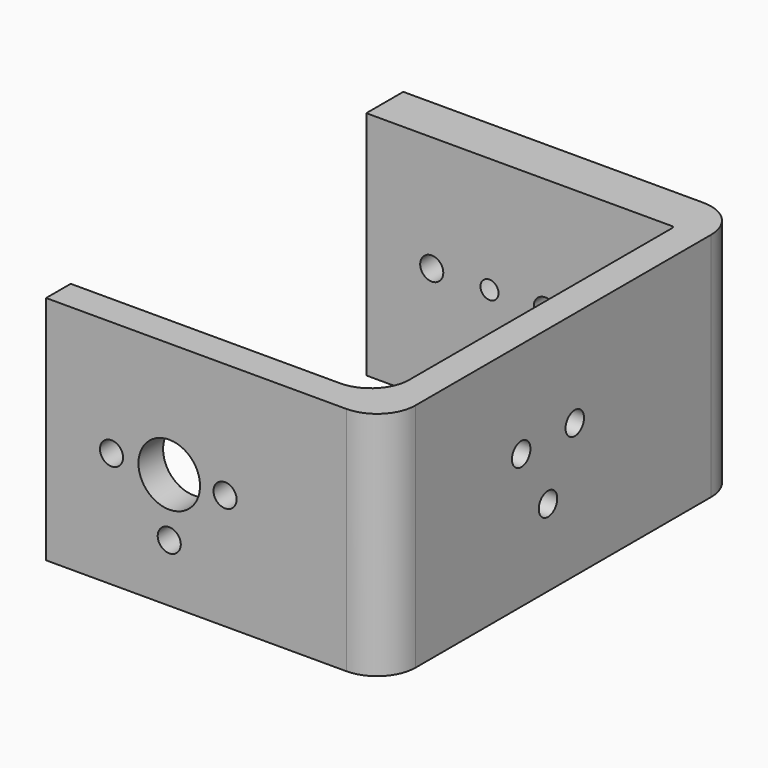
from build123d import *

# Parameters (mm, degrees)
F1_DEPTH = 30
F3_D     = 3
F5_D     = 9
F5_DEPTH = 4
F5_TIP   = 2.7038727856
F7_D     = 3
F9_D     = 8
F9_DEPTH = 4
F9_TIP   = 2.4034424761


with BuildPart() as f1:
    # F0 (on Top) → F1 (new body)
    with BuildSketch(Plane.XY):
        with BuildLine():
            ThreePointArc((-0.3734174669, 52.9050653557), (-0.1966407716, 52.831842051), (-0.1234174669, 52.6550653557))
            Line((-0.1234174669, 52.6550653557), (-0.1234174669, 9.9050653557))
            ThreePointArc((-0.1234174669, 9.9050653557), (-1.5878835609, 6.3695314498), (-5.1234174669, 4.9050653557))
            Line((-5.1234174669, 4.9050653557), (-40.1234174669, 4.9050653557))
            Line((-40.1234174669, 4.9050653557), (-40.1234174669, 0.9050653557))
            Line((-40.1234174669, 0.9050653557), (-1.1234174669, 0.9050653557))
            ThreePointArc((-1.1234174669, 0.9050653557), (2.4121164391, 2.3695314498), (3.8765825331, 5.9050653557))
            Line((3.8765825331, 5.9050653557), (3.8765825331, 53.9050653557))
            ThreePointArc((3.8765825331, 53.9050653557), (2.4121164391, 57.4405992616), (-1.1234174669, 58.9050653557))
            Line((-1.1234174669, 58.9050653557), (-40.1234174669, 58.9050653557))
            Line((-40.1234174669, 58.9050653557), (-40.1234174669, 52.9050653557))
            Line((-40.1234174669, 52.9050653557), (-0.3734174669, 52.9050653557))
        make_face()
    extrude(amount=F1_DEPTH)

    # F3 (through all)
    with Locations(Plane.YZ.offset(3.8765825331)):
        with Locations((23.0537810803, 17.4629910993), (27.4050653557, 10), (31.7563496311, 17.4629910993)):
            Hole(F3_D / 2)

    # F5
    with Locations(Plane(origin=(0, 58.9050653557, 0), x_dir=(-1, 0, 0), z_dir=(0, 1, 0))):
        with Locations((24.1229310632, 15)):
            Hole(F5_D / 2, depth=F5_DEPTH)
            with Locations((0, 0, -(F5_DEPTH + F5_TIP / 2))):  # 118° drill point
                Cone(0, F5_D / 2, F5_TIP, mode=Mode.SUBTRACT)

    # F7 (through all)
    with Locations(Plane(origin=(0, 58.9050653557, 0), x_dir=(-1, 0, 0), z_dir=(0, 1, 0))):
        with Locations((31.6229310632, 15), (24.1229310632, 7.5), (16.8729310632, 15)):
            Hole(F7_D / 2)

    # F9
    with Locations(Plane.XZ.offset(-0.9050653557)):
        with Locations((-24.1234174669, 15)):
            Hole(F9_D / 2, depth=F9_DEPTH)
            with Locations((0, 0, -(F9_DEPTH + F9_TIP / 2))):  # 118° drill point
                Cone(0, F9_D / 2, F9_TIP, mode=Mode.SUBTRACT)


solid = f1.part
